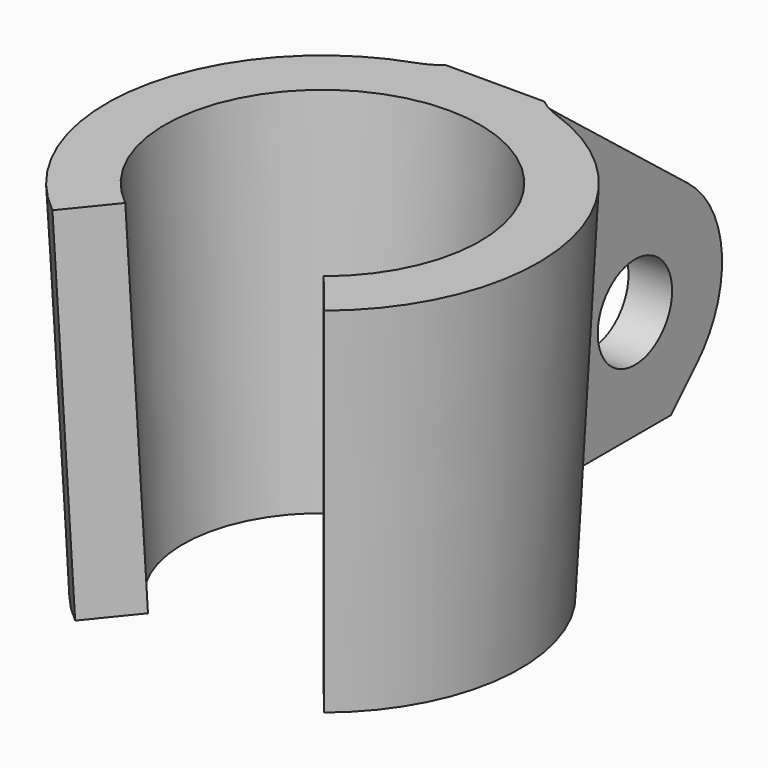
from build123d import *

# Parameters (mm, degrees)
F1_ANGLE_BACK = 141
F1_ANGLE      = 282
F2_R          = 3.2
F3_DEPTH      = 1.5
F4_R          = 5


with BuildPart() as f1:
    # F0 (on Right) → F1 (revolve)
    with BuildSketch(Plane.YZ, mode=Mode.PRIVATE) as f1_sk:
        Polygon((9.6, 0), (13.6049968789, 0), (14.8549968789, 25), (10.85, 25), align=None)
    revolve(f1_sk.sketch.rotate(Axis((0, 0, 12.5), (0, 0, 1)), -F1_ANGLE_BACK), axis=Axis((0, 0, 12.5), (0, 0, 1)), revolution_arc=F1_ANGLE)

    # F2 (on Right) → F3 (join, symmetric)
    with BuildSketch(Plane.YZ):
        with BuildLine():
            Line((14.8549968789, 25), (10.85, 25))
            Line((10.85, 25), (9.6, 0))
            Line((9.6, 0), (25, 0))
            Line((25, 0), (28.1066017178, 0))
            Line((28.1066017178, 0), (30.3033008589, 2.1966991411))
            ThreePointArc((30.3033008589, 2.1966991411), (32.4865458897, 7.9490330074), (29.6313916174, 13.3991704236))
            Line((29.6313916174, 13.3991704236), (14.8549968789, 25))
        make_face()
        with Locations((25, 7.5)):
            Circle(F2_R, mode=Mode.SUBTRACT)
    extrude(amount=F3_DEPTH, both=True)

    # F4 (call 1 of 2: OpenCascade refuses the feature's edges together)
    f4_edges = [f1.edges().sort_by_distance(p)[0] for p in [
        (1.5, 14.150717, 12.499992),
    ]]
    fillet(f4_edges, radius=F4_R)

    # F4#2 (call 2 of 2)
    f4_2_edges = [f1.edges().sort_by_distance(p)[0] for p in [
        (-1.5, 14.150717, 12.499992),
    ]]
    fillet(f4_2_edges, radius=F4_R)


solid = f1.part
